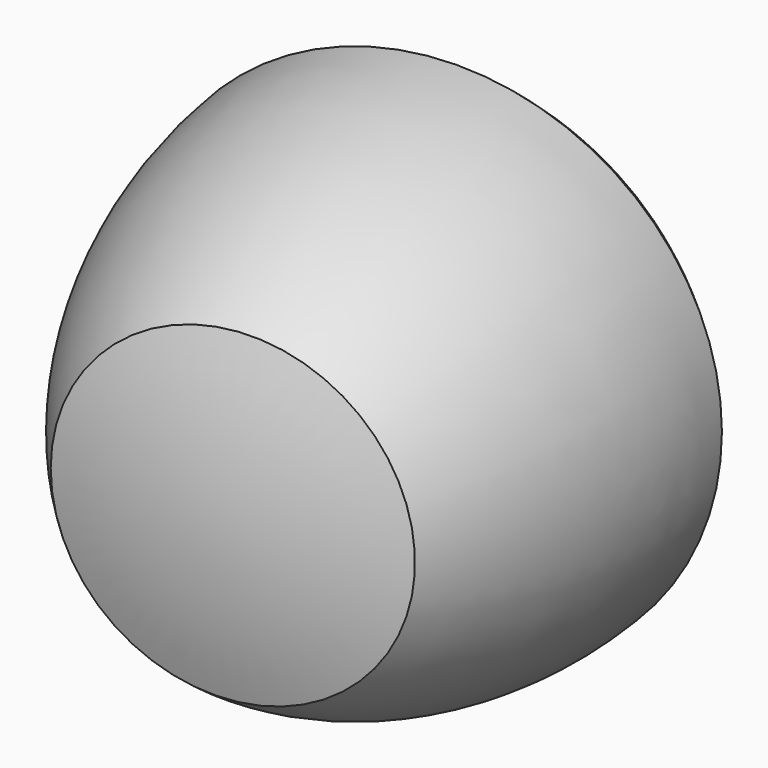
from build123d import *


with BuildPart() as f1:
    # F0 (on Top) → F1 (revolve)
    with BuildSketch(Plane.XY):
        with BuildLine():
            ThreePointArc((-17.6016403931, 106.5891002701), (-69.364848964, 68.4581184601), (-106.8114643882, 16.1976886052))
            ThreePointArc((-106.8114643882, 16.1976886052), (-86.5424567969, -44.815169602), (-48.411474987, -96.5783781728))
            ThreePointArc((-48.411474987, -96.5783781728), (-16.2497589933, -98.8967693688), (15.8786691936, -96.1554164857))
            Line((15.8786691936, -96.1554164857), (14.2400262069, -86.2323935336))
            Line((14.2400262069, -86.2323935336), (-17.6016403931, 106.5891002701))
        make_face()
    revolve(axis=Axis((-0.8614855998, 5.2168418922, 0), (0.162928892, -0.9866378141, 0)))


solid = f1.part
